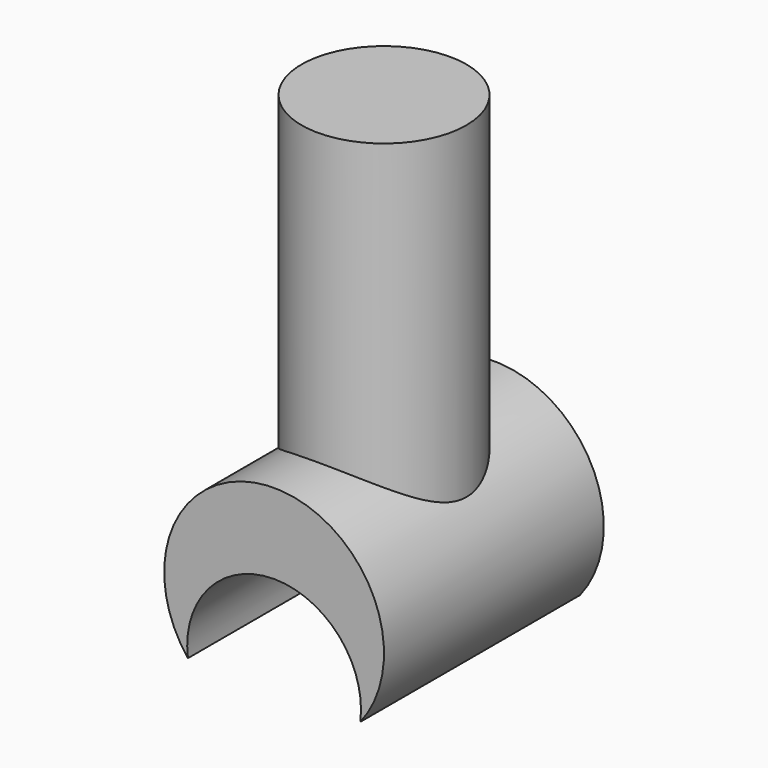
from build123d import *

# Parameters (mm, degrees)
F1_DEPTH = 5
F2_R     = 1.5
F3_DEPTH = 6


with BuildPart() as f1:
    # F0 (on Front) → F1 (new body)
    with BuildSketch(Plane.XZ):
        with BuildLine():
            ThreePointArc((-1.56895, -2.520923), (0, -0.740736), (1.56895, -2.520923))
            ThreePointArc((1.56895, -2.520923), (0, 0.719398), (-1.56895, -2.520923))
        make_face()
    extrude(amount=F1_DEPTH)

    # F2 (on Top) → F3 (join)
    with BuildSketch(Plane.XY):
        with Locations((0, -2.5)):
            Circle(F2_R)
    extrude(amount=F3_DEPTH)


solid = f1.part
